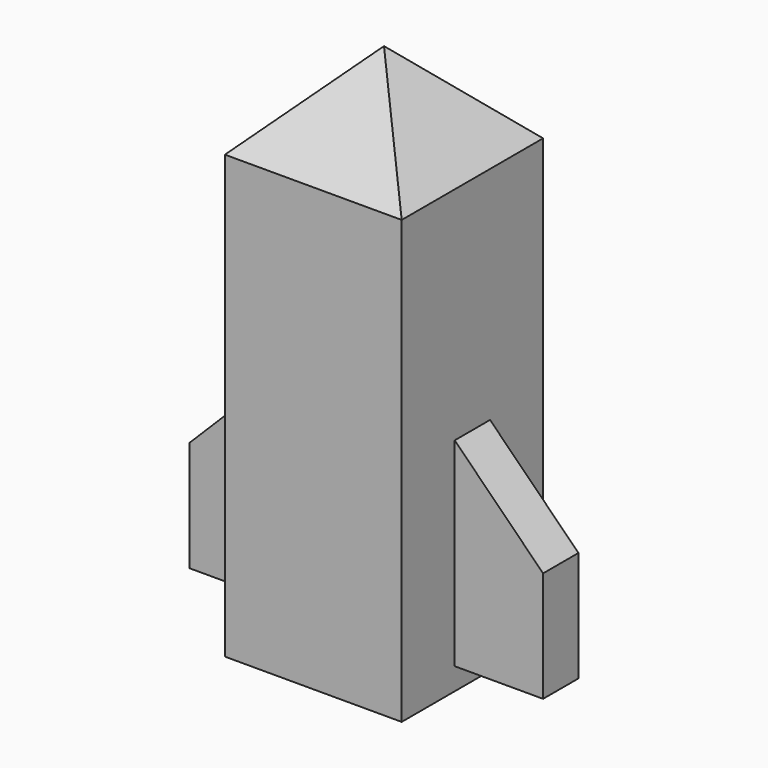
from build123d import *

# Parameters (mm, degrees)
F1_DEPTH = 12.7
F2_W     = 25.4
F2_H     = 76.2
F2_W_2   = 6.35
F2_H_2   = 28.575
F3_DEPTH = 12.701
F4_W     = 9.525
F4_H     = 28.575
F5_DEPTH = 12.701
F7_DEPTH = 38.101
F8_R     = 3.175
F9_DEPTH = 15.875


with BuildPart() as f1:
    # F0 (on Front) → F1 (new body, symmetric)
    with BuildSketch(Plane.XZ):
        Polygon((12.7, 63.5), (0, 76.2), (-12.7, 63.5), (-12.7, 31.75), (-25.4, 19.05), (-25.4, 3.175), (-12.7, 3.175), (-12.7, 0), (0, 0), (12.7, 0), (12.7, 3.175), (25.4, 3.175), (25.4, 19.05), (12.7, 31.75), align=None)
        Polygon((12.7, 63.5), (0, 76.2), (-12.7, 63.5), (-12.7, 31.75), (-25.4, 19.05), (-25.4, 3.175), (-12.7, 3.175), (-12.7, 0), (0, 0), (12.7, 0), (12.7, 3.175), (25.4, 3.175), (25.4, 19.05), (12.7, 31.75), align=None)
    extrude(amount=F1_DEPTH, both=True)

    # F2 (on face) → F3 (cut, through all)
    with BuildSketch(Plane.YZ.offset(12.7)):
        with Locations((0, 38.1)):
            Rectangle(F2_W, F2_H)
        with Locations((0, 17.4625)):
            Rectangle(F2_W_2, F2_H_2, mode=Mode.SUBTRACT)
    extrude(amount=F3_DEPTH, mode=Mode.SUBTRACT)

    # F4 (on face) → F5 (cut, through all)
    with BuildSketch(Plane(origin=(-12.7, 0, 0), x_dir=(0, -1, 0), z_dir=(-1, 0, 0))):
        with Locations((-7.9375, 17.4625)):
            Rectangle(F4_W, F4_H)
        with Locations((7.9375, 17.4625)):
            Rectangle(F4_W, F4_H)
    extrude(amount=F5_DEPTH, mode=Mode.SUBTRACT)

    # F6 (on face) → F7 (cut, through all)
    with BuildSketch(Plane.YZ.offset(12.7)):
        Polygon((-12.7, 76.2), (-12.7, 63.5), (0, 76.2), align=None)
        Polygon((12.7, 76.2), (0, 76.2), (12.7, 63.5), align=None)
    extrude(amount=-F7_DEPTH, mode=Mode.SUBTRACT)

    # F8 (on face) → F9 (cut)
    with BuildSketch(Plane(origin=(0, 0, 0), x_dir=(1, 0, 0), z_dir=(0, 0, -1))):
        with Locations((6.858, 0)):
            Circle(F8_R)
        with Locations((-6.858, 0)):
            Circle(F8_R)
    extrude(amount=-F9_DEPTH, mode=Mode.SUBTRACT)


solid = f1.part
